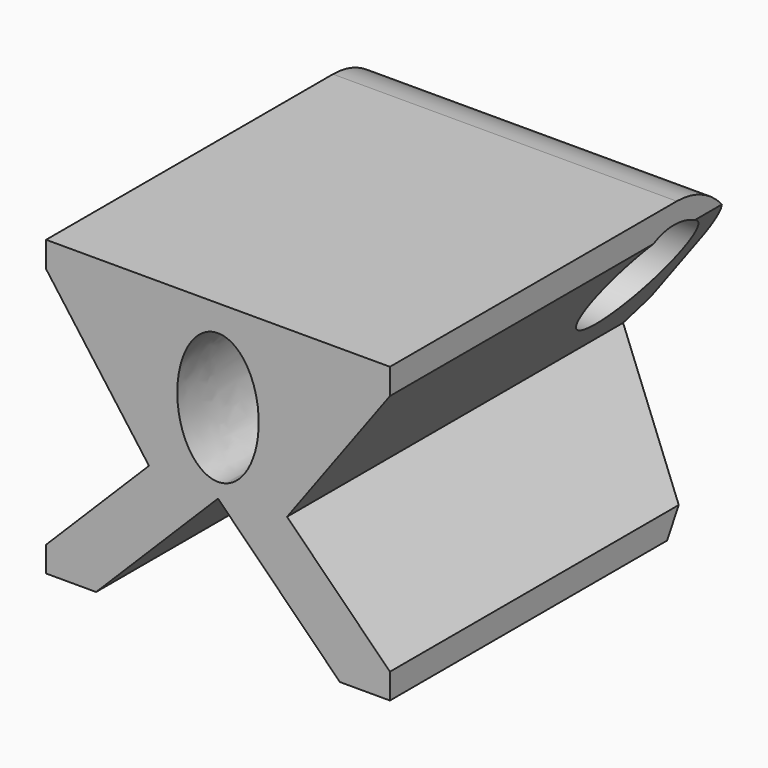
from build123d import *

# Parameters (mm, degrees)
F0_W      = 50
F0_H      = 90
F1_DEPTH  = 50
F3_DEPTH  = 90.001
F4_R      = 8.198492098
F5_DEPTH  = 50.001
F6_R      = 10.8639610307
F8_DEPTH  = 50.001
F11_DEPTH = 90.001
F13_DEPTH = 90.0010001
F14_DEPTH = 90.0010001
F15_DEPTH = 27


with BuildPart() as f1:
    # F0 (on Top) → F1 (new body)
    with BuildSketch(Plane.XY):
        Rectangle(F0_W, F0_H)
    extrude(amount=F1_DEPTH)

    # F2 (on face) → F3 (cut, through all)
    with BuildSketch(Plane.XZ.offset(45)):
        Polygon((0, 25), (-25, 0), (25, 0), align=None)
    extrude(amount=-F3_DEPTH, mode=Mode.SUBTRACT)

    # F4 (on face) → F5 (cut, through all)
    with BuildSketch(Plane(origin=(-25, 0, 0), x_dir=(0, -1, 0), z_dir=(-1, 0, 0))):
        with Locations((-33.659145236, 38.9719307423)):
            Circle(F4_R)
    extrude(amount=-F5_DEPTH, mode=Mode.SUBTRACT)

    # F6
    f6_edges = [f1.edges().sort_by_distance(p)[0] for p in [
        (0, 45, 50),
    ]]
    fillet(f6_edges, radius=F6_R)

    # F7 (on face) → F8 (cut, through all)
    with BuildSketch(Plane.YZ.offset(25)):
        Polygon((28.1980223954, 0), (45, 0), (45, 29.2644444853), align=None)
    extrude(amount=-F8_DEPTH, mode=Mode.SUBTRACT)

    # F10 (on face) → F11 (cut, through all)
    with BuildSketch(Plane.XZ.offset(45)):
        with BuildLine():
            add(Edge.make_bspline(
                [(0, 46.1721457541), (-10.2533935373, 46.1721457541), (-5.1266967687, 31.8932551891), (0, 17.614364624), (5.1266967687, 31.8932551891), (10.2533935373, 46.1721457541), (0, 46.1721457541)],
                knots=[0, 0, 0, 2.0943951024, 2.0943951024, 4.1887902048, 4.1887902048, 6.2831853072, 6.2831853072, 6.2831853072], degree=2, weights=[1, 0.5, 1, 0.5, 1, 0.5, 1]))
        make_face()
    extrude(amount=-F11_DEPTH, mode=Mode.SUBTRACT)

    # F12 (on face) → F13 (cut, through all)
    with BuildSketch(Plane.XZ.offset(45)):
        Polygon((25, 7.2744810022), (17.7255189978, 7.2744810022), (25, 0), align=None)
        Polygon((-17.7255189978, 7.2744810022), (-25, 7.2744810022), (-25, 0), align=None)
    extrude(amount=-F13_DEPTH, mode=Mode.SUBTRACT)

    # F9 (on face) → F14 (cut, through all)
    with BuildSketch(Plane.XZ.offset(45)):
        Polygon((25, 10.9673021361), (25, 46.2542101741), (10.0381237455, 25.9291783907), align=None)
        Polygon((-25, 46.2542101741), (-25, 10.9673021361), (-10.0381237455, 25.9291783907), align=None)
    extrude(amount=-F14_DEPTH, mode=Mode.SUBTRACT)

    # F15 (cut): a face of the model
    f15_faces = [f1.faces().sort_by_distance(p)[0] for p in [
        (21.3627594989, -45, 7.9321640574),
    ]]
    extrude(f15_faces, amount=-F15_DEPTH, mode=Mode.SUBTRACT)


solid = f1.part
